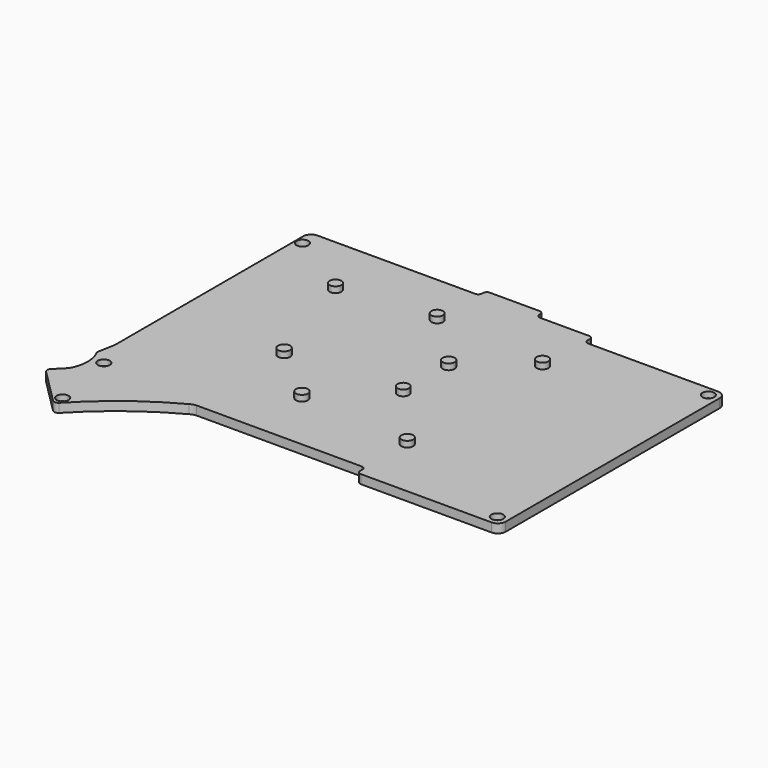
from build123d import *

# Parameters (mm, degrees)
PAD001_DEPTH  = 3
SKETCH014_R   = 2.000997
SKETCH014_R_2 = 1.989716
SKETCH014_R_3 = 2.044982
SKETCH014_R_4 = 1.975414
SKETCH014_R_5 = 2.027461
SKETCH014_R_6 = 1.954742
SKETCH014_R_7 = 2.009119
PAD013_DEPTH  = 2
SKETCH015_R   = 2
POCKET_DEPTH  = 2


with BuildPart() as part:
    # Sketch002 → Pad001 (new body)
    with BuildSketch(Plane.XY):
        with BuildLine():
            Line((158.170695, -17.490656), (158.170695, -16.535702))
            ThreePointArc((160.837743, -13.868068), (158.954121, -14.651909), (158.170695, -16.535702))
            Line((161.975632, -13.868068), (160.837743, -13.868068))
            Line((161.975632, -13.868068), (214.050903, -13.868068))
            ThreePointArc((214.050903, -13.868068), (214.951659, -13.498902), (215.320954, -12.598198))
            Line((215.320954, -12.598198), (215.320954, -12.216596))
            ThreePointArc((216.59103, -10.947382), (215.694908, -11.320728), (215.320954, -12.216596))
            Line((216.59103, -10.947382), (218.273682, -10.947382))
            Line((218.273682, -10.947382), (233.355242, -10.947382))
            ThreePointArc((234.625102, -12.21752), (234.252072, -11.320608), (233.355242, -10.947382))
            Line((234.625102, -12.21752), (234.625102, -12.598559))
            ThreePointArc((234.625102, -12.598559), (234.994142, -13.499389), (235.895, -13.868359))
            Line((235.895, -13.868359), (238.271805, -13.868359))
            Line((238.271805, -13.868359), (252.40531, -13.868359))
            ThreePointArc((253.674886, -15.138264), (253.301131, -14.242347), (252.40531, -13.868359))
            Line((253.674886, -15.138264), (253.674886, -16.154515))
            ThreePointArc((253.674886, -16.154515), (254.046325, -17.05216), (254.943533, -17.424653))
            Line((254.943533, -17.424653), (298.758985, -17.424653))
            ThreePointArc((301.426813, -20.093175), (300.642993, -18.208962), (298.758985, -17.424653))
            Line((301.426813, -20.093175), (301.426813, -110.261392))
            ThreePointArc((298.759763, -112.928087), (300.646389, -112.147914), (301.426813, -110.261392))
            Line((298.759763, -112.928087), (296.766937, -112.928087))
            Line((296.766937, -112.928087), (254.690998, -112.928087))
            ThreePointArc((253.420935, -111.658351), (253.793197, -112.556056), (254.690998, -112.928087))
            Line((253.420935, -111.658351), (253.420935, -110.642303))
            ThreePointArc((253.420935, -110.642303), (253.045275, -109.745808), (252.147799, -109.372497))
            Line((252.147799, -109.372497), (196.525526, -109.372497))
            ThreePointArc((196.525526, -109.372497), (195.461836, -109.538225), (194.493223, -110.008001))
            ThreePointArc((194.493223, -110.008001), (180.053907, -119.312238), (167.31519, -130.835593))
            ThreePointArc((165.282705, -130.835445), (166.298917, -131.255159), (167.31519, -130.835593))
            Line((165.282705, -130.835445), (153.598862, -119.151413))
            ThreePointArc((153.598907, -117.119461), (153.178634, -118.135428), (153.598862, -119.151413))
            Line((153.598907, -117.119461), (157.024855, -113.694223))
            ThreePointArc((157.024855, -113.694223), (158.518785, -107.850658), (157.027893, -102.006317))
            Line((157.027893, -102.006317), (158.170695, -95.78363))
            Line((158.170695, -95.78363), (158.170695, -17.490656))
        make_face()
    extrude(amount=-PAD001_DEPTH)

    # Sketch014 → Pad013 (join)
    with BuildSketch(Plane.XY):
        with Locations((253.550873, -34.889503)):
            Circle(SKETCH014_R)
        with Locations((253.5784, -91.939972)):
            Circle(SKETCH014_R_2)
        with Locations((196.387711, -72.36747)):
            Circle(SKETCH014_R_3)
        with Locations((215.512299, -31.736803)):
            Circle(SKETCH014_R_4)
        with Locations((215.534556, -88.769968)):
            Circle(SKETCH014_R_5)
        with Locations((234.534821, -69.803696)):
            Circle(SKETCH014_R_6)
        with Locations((234.538681, -50.705391)):
            Circle(SKETCH014_R_7)
        with Locations((183.832245, -35.004906)):
            Circle(SKETCH014_R_4)
    extrude(amount=PAD013_DEPTH)

    # Sketch015 (on Face37 of Pad001) → Pocket (cut)
    with BuildSketch(Plane.XY):
        with Locations((166.298927, -128.044507)):
            Circle(SKETCH015_R)
        with Locations((297.965025, -109.472203)):
            Circle(SKETCH015_R)
        with Locations((160.45478, -19.71329)):
            Circle(SKETCH015_R)
        with Locations((297.96712, -20.569173)):
            Circle(SKETCH015_R)
        with Locations((162.270263, -105.690893)):
            Circle(SKETCH015_R)
    extrude(amount=-POCKET_DEPTH, mode=Mode.SUBTRACT)


solid = part.part
